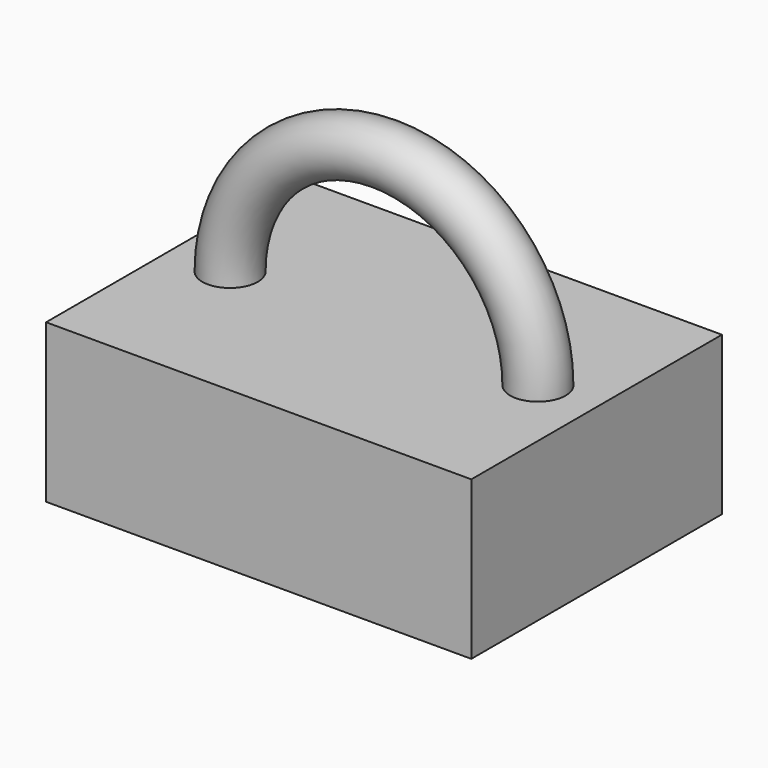
from build123d import *

# Parameters (mm, degrees)
F0_W     = 69.361538
F0_H     = 102.186158
F2_DEPTH = 51.562
F1_R     = 9.049601


with BuildPart() as f2:
    # F0 (on Top) → F2 (new body)
    with BuildSketch(Plane.XY):
        with Locations((34.680769, 0)):
            Rectangle(F0_W, F0_H)
        with Locations((-34.680769, 0)):
            Rectangle(F0_W, F0_H)
    extrude(amount=-F2_DEPTH)


with BuildPart() as f3:
    # F1 (on Top) → F3 (revolve)
    with BuildSketch(Plane.XY):
        with Locations((50.213844, 0)):
            Circle(F1_R)
    revolve(axis=Axis((0, 0, 0), (0, -1, 0)))


solid = Compound([f2.part, f3.part])
